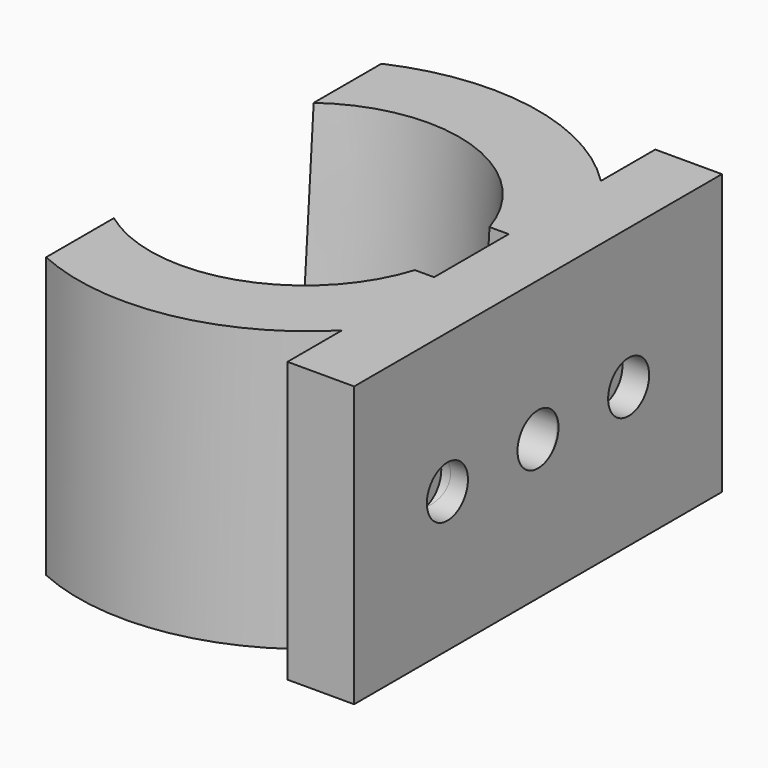
from build123d import *

# Parameters (mm, degrees)
SKETCH007_W     = 34.5
SKETCH007_H     = 21
SKETCH007_R     = 1.925
PAD001_DEPTH    = 5
SKETCH008_R     = 1.925
POCKET006_DEPTH = 2
PAD002_DEPTH    = 21
SKETCH010_R     = 1.925
POCKET007_DEPTH = 2
SKETCH011_R     = 1.925
POCKET008_DEPTH = 24.335471


with BuildPart() as cono:
    # Cone → Cone (revolve)
    with BuildSketch(Plane(origin=(-17.5, 0, 0), x_dir=(1, 0, 0), z_dir=(0, -1, 0))):
        Polygon((0, 0), (10.415, 0), (11.6, 21), (0, 21), align=None)
    revolve(axis=Axis((-17.5, 0, 0), (0, 0, 1)))


with BuildPart() as obj1:
    # Sketch007 → Pad001 (new body)
    with BuildSketch(Plane.YZ):
        with Locations((0, 10.5)):
            Rectangle(SKETCH007_W, SKETCH007_H)
        with Locations((0, 10.5)):
            Circle(SKETCH007_R, mode=Mode.SUBTRACT)
    extrude(amount=-PAD001_DEPTH)

    # Sketch008 → Pocket006 (cut)
    with BuildSketch(Plane.YZ):
        with Locations((-8.5, 10.5)):
            Circle(SKETCH008_R)
        with Locations((8.5, 10.5)):
            Circle(SKETCH008_R)
    extrude(amount=-POCKET006_DEPTH, mode=Mode.SUBTRACT)

    # Sketch009 → Pad002 (new body)
    with BuildSketch(Plane(origin=(0, 0, 21), x_dir=(0, -1, 0), z_dir=(0, 0, 1))):
        with BuildLine():
            ThreePointArc((15.728159, -24.334314), (-8.6e-05, 0), (-15.728089, -24.334471))
            Line((-7.75, -24.334314), (-15.728089, -24.334471))
            ThreePointArc((-3.5, -7.350505), (-10.185925, -14.701091), (-7.75, -24.334314))
            Line((-3.5, -4), (-3.5, -7.350505))
            Line((3.5, -4), (-3.5, -4))
            Line((3.5, -7.350505), (3.5, -4))
            ThreePointArc((7.75, -24.334314), (10.185925, -14.701091), (3.5, -7.350505))
            Line((7.75, -24.334314), (15.728159, -24.334314))
        make_face()
    extrude(amount=-PAD002_DEPTH)

    # Sketch010 → Pocket007 (cut)
    with BuildSketch(Plane.YZ):
        with Locations((-8.5, 10.5)):
            Circle(SKETCH010_R)
        with Locations((8.5, 10.5)):
            Circle(SKETCH010_R)
    extrude(amount=-POCKET007_DEPTH, mode=Mode.SUBTRACT)

    # Sketch011 → Pocket008 (cut, through all)
    with BuildSketch(Plane.YZ):
        with Locations((0, 10.5)):
            Circle(SKETCH011_R)
    extrude(amount=-POCKET008_DEPTH, mode=Mode.SUBTRACT)

    # Cut: cut Cono
    add(cono.part, mode=Mode.SUBTRACT)


solid = obj1.part
